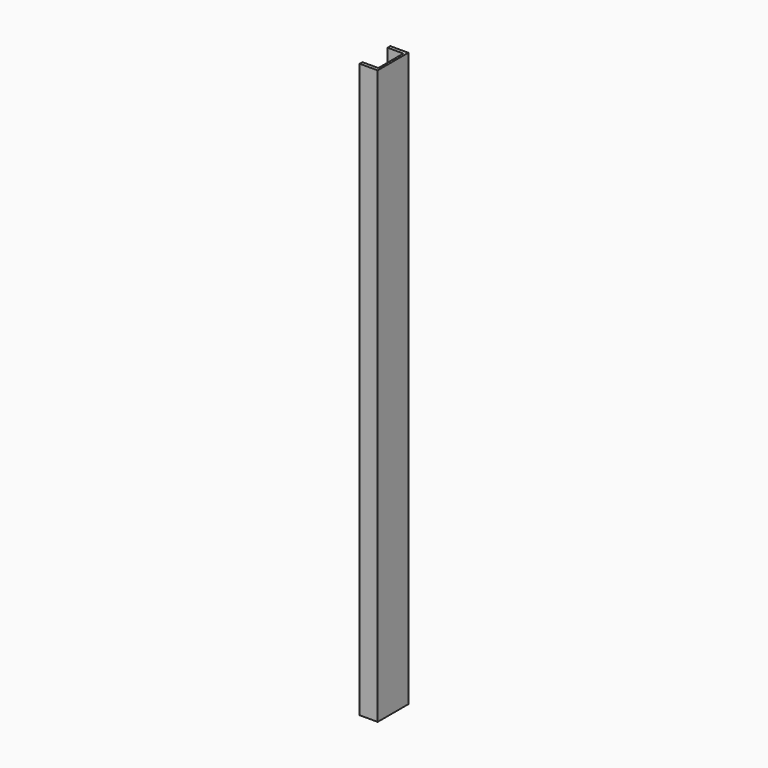
from build123d import *

# Parameters (mm, degrees)
F0_W     = 76.2
F0_H     = 1143
F1_DEPTH = 35.814
F2_W     = 31.496
F2_H     = 62.3316
F3_DEPTH = 1143.001


with BuildPart() as f1:
    # F0 (on Right) → F1 (new body)
    with BuildSketch(Plane.YZ):
        with Locations((-38.1, 783.091887)):
            Rectangle(F0_W, F0_H)
    extrude(amount=-F1_DEPTH)

    # F2 (on face) → F3 (cut, through all)
    with BuildSketch(Plane.XY.offset(1354.591887)):
        with Locations((-20.066, -38.1)):
            Rectangle(F2_W, F2_H)
    extrude(amount=-F3_DEPTH, mode=Mode.SUBTRACT)


solid = f1.part
